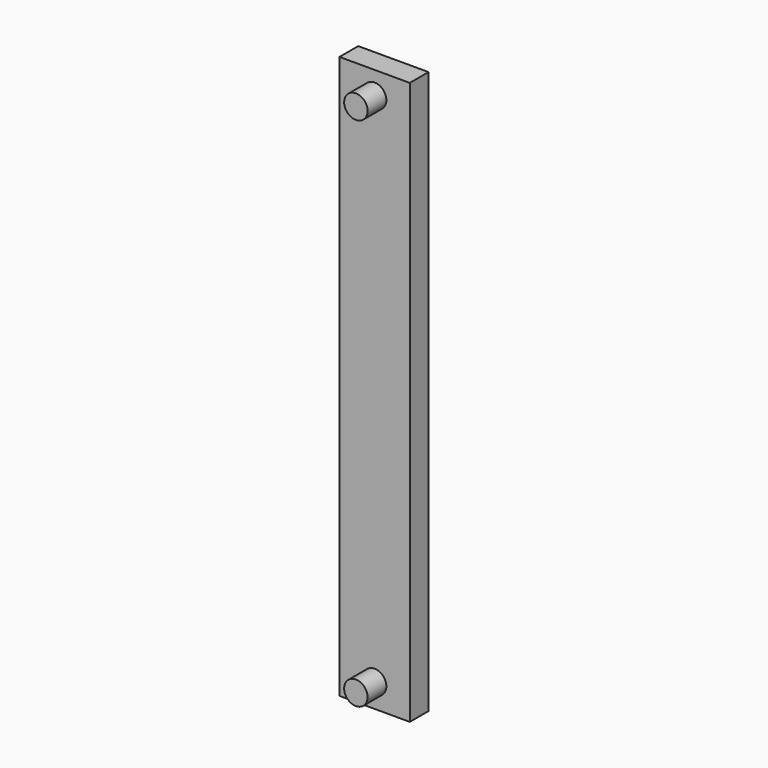
from build123d import *

# Parameters (mm, degrees)
F0_R     = 3.175
F0_W     = 19.05
F0_H     = 152.4
F1_DEPTH = 6.35
F2_DEPTH = 12.7


with BuildPart() as f1:
    # F0 (on Front) → F1 (new body)
    with BuildSketch(Plane.XZ):
        with Locations((0, 70.022136)):
            Circle(F0_R)
        Rectangle(F0_W, F0_H)
        with Locations((0, -69.768146)):
            Circle(F0_R, mode=Mode.SUBTRACT)
        with Locations((0, 70.022136)):
            Circle(F0_R, mode=Mode.SUBTRACT)
        with Locations((0, -69.768146)):
            Circle(F0_R)
    extrude(amount=F1_DEPTH)

    # F0 (on Front) → F2 (join)
    with BuildSketch(Plane.XZ):
        with Locations((0, 70.022136)):
            Circle(F0_R)
        with Locations((0, -69.768146)):
            Circle(F0_R)
    extrude(amount=F2_DEPTH)


solid = f1.part
